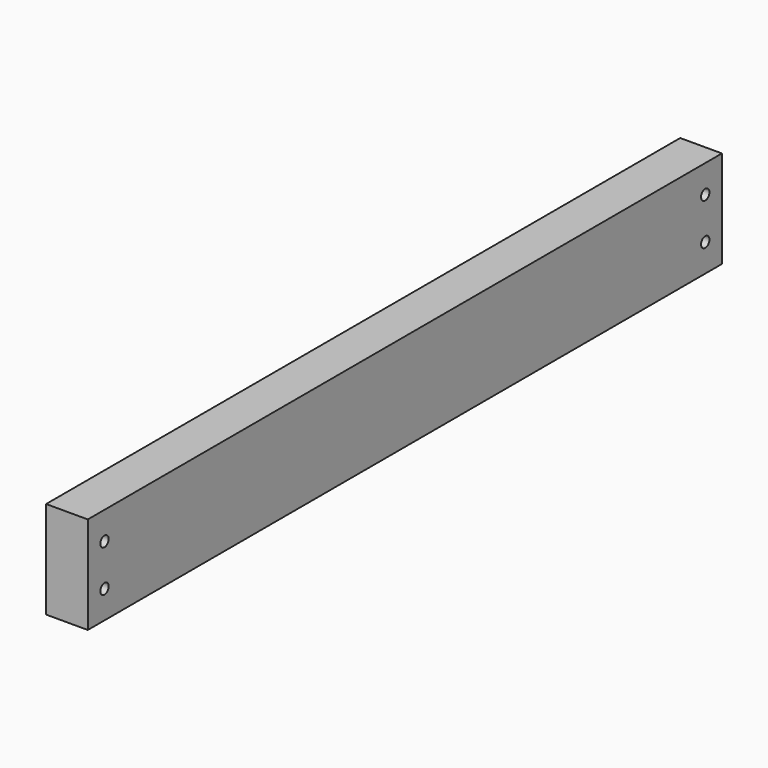
from build123d import *

# Parameters (mm, degrees)
F0_W     = 38.1
F0_H     = 88.9
F1_DEPTH = 361.95
F2_R     = 4.7625
F3_DEPTH = 38.101


with BuildPart() as f1:
    # F0 (on Front) → F1 (new body, symmetric)
    with BuildSketch(Plane.XZ):
        Rectangle(F0_W, F0_H)
    extrude(amount=F1_DEPTH, both=True)

    # F2 (on face) → F3 (cut, through all)
    with BuildSketch(Plane.YZ.offset(19.05)):
        with Locations((-342.9, 19.05)):
            Circle(F2_R)
        with Locations((-342.9, -19.05)):
            Circle(F2_R)
        with Locations((342.9, 19.05)):
            Circle(F2_R)
        with Locations((342.9, -19.05)):
            Circle(F2_R)
    extrude(amount=-F3_DEPTH, mode=Mode.SUBTRACT)


solid = f1.part
